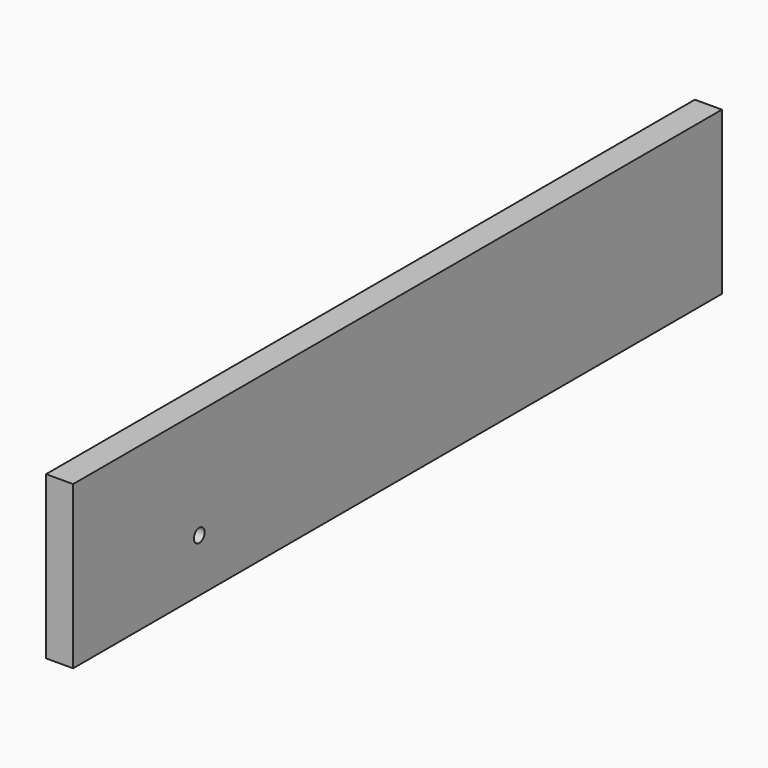
from build123d import *

# Parameters (mm, degrees)
F0_W     = 285.75
F0_H     = 57.15
F1_DEPTH = 9.525
F2_D     = 4.7625


with BuildPart() as f1:
    # F0 (on Right) → F1 (new body)
    with BuildSketch(Plane.YZ):
        with Locations((142.875, 28.575)):
            Rectangle(F0_W, F0_H)
    extrude(amount=F1_DEPTH)

    # F2 (through all)
    with Locations(Plane(origin=(0, 0, 0), x_dir=(0, 1, 0), z_dir=(-1, 0, 0))):
        with Locations((55.5625, -18.669)):
            Hole(F2_D / 2)


solid = f1.part
